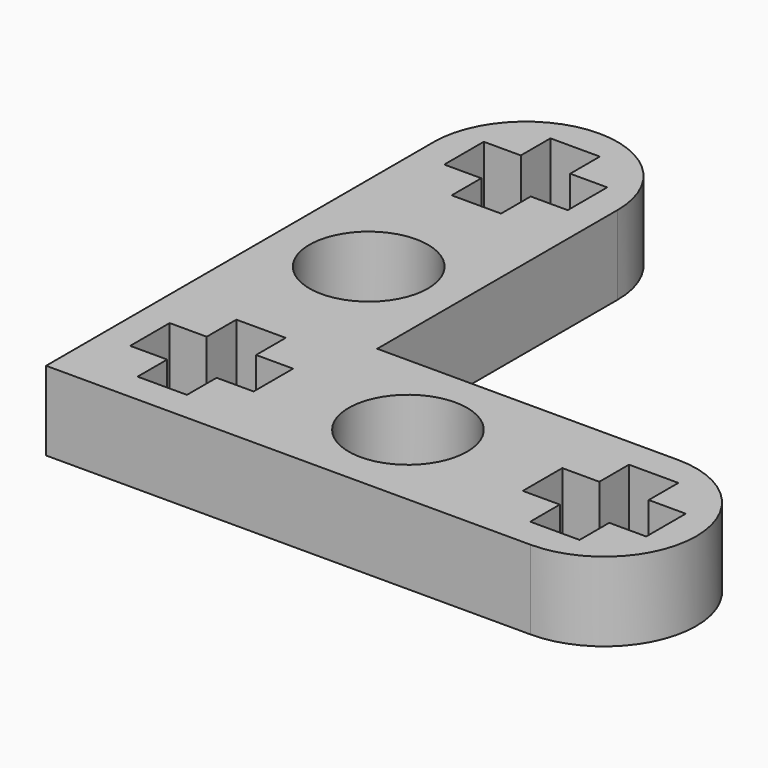
from build123d import *

# Parameters (mm, degrees)
F0_R     = 2.4
F1_DEPTH = 3.2


with BuildPart() as f1:
    # F0 (on Top) → F1 (new body)
    with BuildSketch(Plane.XY):
        with BuildLine():
            ThreePointArc((0, 12.175), (-3.725, 15.9), (-7.45, 12.175))
            Line((-7.45, 12.175), (-7.45, -7.45))
            Line((-7.45, -7.45), (12.175, -7.45))
            ThreePointArc((12.175, -7.45), (15.9, -3.725), (12.175, 0))
            Line((12.175, 0), (0, 0))
            Line((0, 0), (0, 12.175))
        make_face()
        Polygon((-4.725, -2.725), (-4.725, -1.225), (-2.725, -1.225), (-2.725, -2.725), (-1.225, -2.725), (-1.225, -4.725), (-2.725, -4.725), (-2.725, -6.225), (-4.725, -6.225), (-4.725, -4.725), (-6.225, -4.725), (-6.225, -2.725), align=None, mode=Mode.SUBTRACT)
        with Locations((4.225, -3.725)):
            Circle(F0_R, mode=Mode.SUBTRACT)
        Polygon((11.175, -2.725), (11.175, -1.225), (13.175, -1.225), (13.175, -2.725), (14.675, -2.725), (14.675, -4.725), (13.175, -4.725), (13.175, -6.225), (11.175, -6.225), (11.175, -4.725), (9.675, -4.725), (9.675, -2.725), align=None, mode=Mode.SUBTRACT)
        with Locations((-3.725, 4.225)):
            Circle(F0_R, mode=Mode.SUBTRACT)
        Polygon((-4.725, 13.175), (-4.725, 14.675), (-2.725, 14.675), (-2.725, 13.175), (-1.225, 13.175), (-1.225, 11.175), (-2.725, 11.175), (-2.725, 9.675), (-4.725, 9.675), (-4.725, 11.175), (-6.225, 11.175), (-6.225, 13.175), align=None, mode=Mode.SUBTRACT)
    extrude(amount=F1_DEPTH)


solid = f1.part
